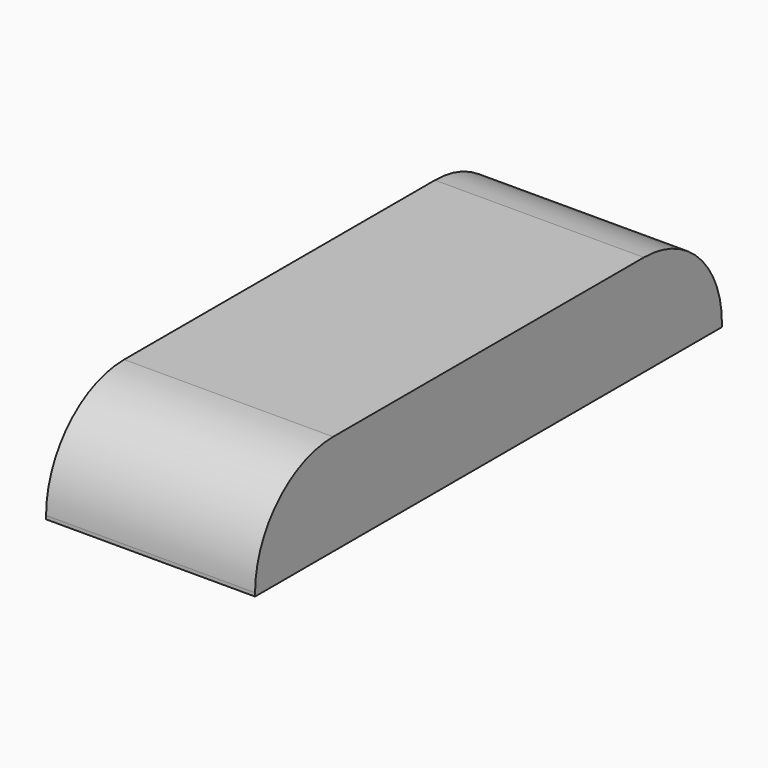
from build123d import *

# Parameters (mm, degrees)
F1_DEPTH = 50.8
F2_R     = 49.05682
F3_R     = 49.0474


with BuildPart() as f1:
    # F0 (on Top) → F1 (new body)
    with BuildSketch(Plane.XY):
        Polygon((-49.864192, 53.976998), (-154.979095, 53.976998), (-154.979095, -239.501879), (-49.864192, -239.501879), (-49.864192, -202.062055), align=None)
    extrude(amount=F1_DEPTH)

    # F2
    f2_edges = [f1.edges().sort_by_distance(p)[0] for p in [
        (-102.421643, -239.501879, 50.8),
    ]]
    fillet(f2_edges, radius=F2_R)

    # F3
    f3_edges = [f1.edges().sort_by_distance(p)[0] for p in [
        (-102.421643, 53.976998, 50.8),
    ]]
    fillet(f3_edges, radius=F3_R)


solid = f1.part
